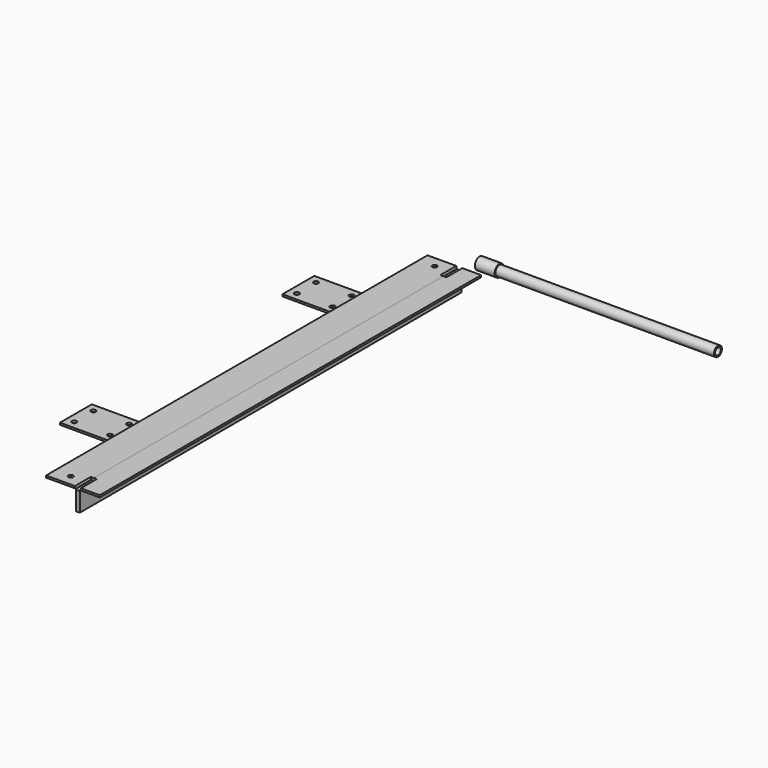
from build123d import *

# Parameters (mm, degrees)
F1_DEPTH  = 1200
F2_R      = 7.5
F3_DEPTH  = 50
F4_R      = 7.5
F5_DEPTH  = 50
F8_R      = 6
F9_DEPTH  = 25
F10_W     = 200
F10_H     = 100
F10_R     = 6
F11_DEPTH = 5
F12_R     = 15
F12_R_2   = 12.5
F13_DEPTH = 50
F14_R     = 12.5
F14_R_2   = 9
F15_DEPTH = 600
F16_W     = 25
F16_H     = 5
F16_W_2   = 1
F17_DEPTH = 1200


with BuildPart() as f1:
    # F0 (on Front) → F1 (new body)
    with BuildSketch(Plane.XZ):
        Polygon((-5, 0), (0, 0), (0, 50), (50, 50), (50, 55), (-5, 55), align=None)
    extrude(amount=F1_DEPTH)

    # F2 (on face) → F3 (cut)
    with BuildSketch(Plane(origin=(0, 0, 0), x_dir=(-1, 0, 0), z_dir=(0, 1, 0))):
        with Locations((5, 55)):
            Circle(F2_R)
    extrude(amount=-F3_DEPTH, mode=Mode.SUBTRACT)

    # F4 (on face) → F5 (cut)
    with BuildSketch(Plane.XZ.offset(1200)):
        with Locations((-5, 55)):
            Circle(F4_R)
    extrude(amount=-F5_DEPTH, mode=Mode.SUBTRACT)


with BuildPart() as f7_1:
    # F7: instance of F1
    add(f1.part.mirror(Plane.YZ.offset(-5)))

    # F8 (on face) → F9 (cut)
    with BuildSketch(Plane.XY.offset(55)):
        with Locations((-45, -27.5)):
            Circle(F8_R)
        with Locations((-45, -1172.5)):
            Circle(F8_R)
    extrude(amount=-F9_DEPTH, mode=Mode.SUBTRACT)

    # F16 (on face) → F17 (join)
    with BuildSketch(Plane.XZ.offset(1200)):
        with Locations((-72.5, 52.5)):
            Rectangle(F16_W, F16_H)
        with Locations((-59.5, 52.5)):
            Rectangle(F16_W_2, F16_H)
    extrude(amount=-F17_DEPTH)


with BuildPart() as f11:
    # F10 (on face) → F11 (new body)
    with BuildSketch(Plane(origin=(0, 0, 50), x_dir=(1, 0, 0), z_dir=(0, 0, -1))):
        with Locations((-110, 250)):
            Rectangle(F10_W, F10_H)
        with Locations((-190, 220)):
            Circle(F10_R, mode=Mode.SUBTRACT)
        with Locations((-190, 280)):
            Circle(F10_R, mode=Mode.SUBTRACT)
        with Locations((-100, 220)):
            Circle(F10_R, mode=Mode.SUBTRACT)
        with Locations((-100, 280)):
            Circle(F10_R, mode=Mode.SUBTRACT)
    extrude(amount=F11_DEPTH)


with BuildPart() as f11b:
    # F10 (on face) → F11, piece 2 (new body)
    with BuildSketch(Plane(origin=(0, 0, 50), x_dir=(1, 0, 0), z_dir=(0, 0, -1))):
        with Locations((-110, 950)):
            Rectangle(F10_W, F10_H)
        with Locations((-190, 920)):
            Circle(F10_R, mode=Mode.SUBTRACT)
        with Locations((-190, 980)):
            Circle(F10_R, mode=Mode.SUBTRACT)
        with Locations((-100, 920)):
            Circle(F10_R, mode=Mode.SUBTRACT)
        with Locations((-100, 980)):
            Circle(F10_R, mode=Mode.SUBTRACT)
    extrude(amount=F11_DEPTH)


with BuildPart() as f13:
    # F12 (on Right) → F13 (new body)
    with BuildSketch(Plane.YZ):
        with Locations((120, 0)):
            Circle(F12_R)
        with Locations((120, 0)):
            Circle(F12_R_2, mode=Mode.SUBTRACT)
    extrude(amount=-F13_DEPTH)


with BuildPart() as f15:
    # F14 (on face) → F15 (new body)
    with BuildSketch(Plane(origin=(-50, 0, 0), x_dir=(0, -1, 0), z_dir=(-1, 0, 0))):
        with Locations((-120, 0)):
            Circle(F14_R)
        with Locations((-120, 0)):
            Circle(F14_R_2, mode=Mode.SUBTRACT)
    extrude(amount=-F15_DEPTH)


solid = Compound([f1.part, f7_1.part, f11.part, f11b.part, f13.part, f15.part])
